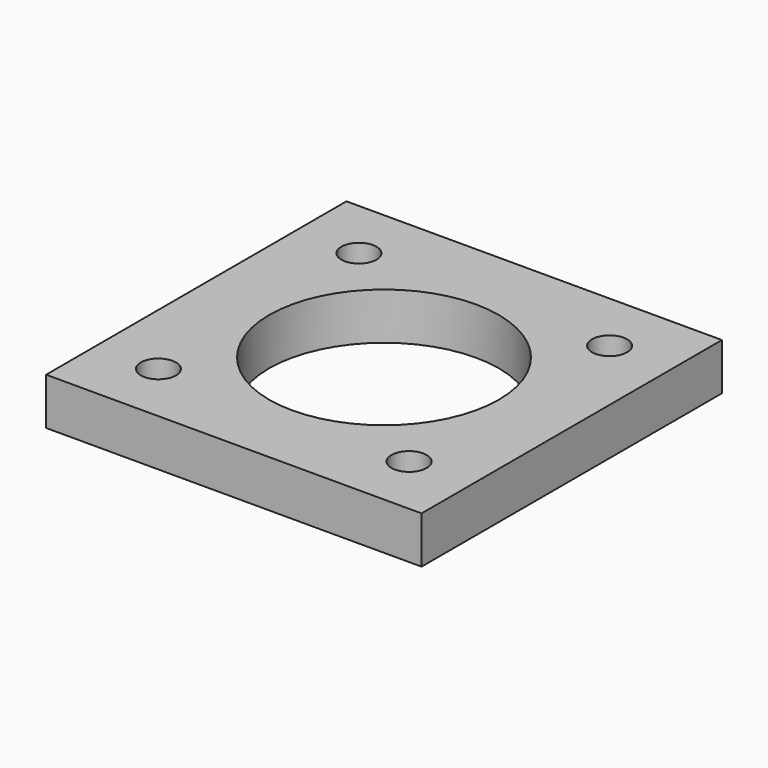
from build123d import *

# Parameters (mm, degrees)
F0_W     = 50.8
F0_H     = 50.8
F0_R     = 2.38125
F0_R_2   = 15.5321
F1_DEPTH = 6.35


with BuildPart() as f1:
    # F0 (on Top) → F1 (new body)
    with BuildSketch(Plane.XY):
        Rectangle(F0_W, F0_H)
        with Locations((-16.954631, -16.954631)):
            Circle(F0_R, mode=Mode.SUBTRACT)
        Circle(F0_R_2, mode=Mode.SUBTRACT)
        with Locations((16.954631, -16.954631)):
            Circle(F0_R, mode=Mode.SUBTRACT)
        with Locations((-16.954631, 16.954631)):
            Circle(F0_R, mode=Mode.SUBTRACT)
        with Locations((16.954631, 16.954631)):
            Circle(F0_R, mode=Mode.SUBTRACT)
    extrude(amount=F1_DEPTH)


solid = f1.part
